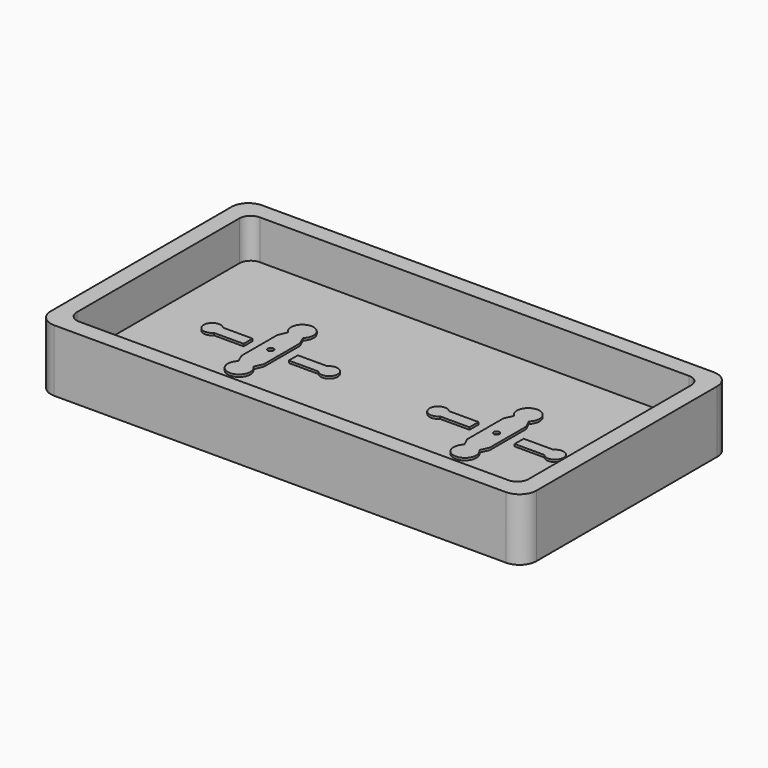
from build123d import *

# Parameters (mm, degrees)
F0_R     = 0.25
F1_DEPTH = 2
F2_DEPTH = 3.5
F3_DEPTH = 0.2


with BuildPart() as f1:
    # F0 (on Top) → F1 (new body)
    with BuildSketch(Plane.XY):
        with BuildLine():
            ThreePointArc((0, 21.5), (-1.06066, 21.06066), (-1.5, 20))
            Line((-1.5, 20), (-1.5, 0))
            ThreePointArc((-1.5, 0), (-1.06066, -1.06066), (0, -1.5))
            Line((0, -1.5), (40, -1.5))
            ThreePointArc((40, -1.5), (41.06066, -1.06066), (41.5, 0))
            Line((41.5, 0), (41.5, 20))
            ThreePointArc((41.5, 20), (41.06066, 21.06066), (40, 21.5))
            Line((40, 21.5), (0, 21.5))
        make_face()
        with BuildLine():
            Line((19.75, 0), (1, 0))
            ThreePointArc((1, 0), (0.292893, 0.292893), (0, 1))
            Line((0, 1), (0, 19))
            ThreePointArc((0, 19), (0.292893, 19.707107), (1, 20))
            Line((1, 20), (19.75, 20))
            Line((19.75, 20), (20.25, 20))
            Line((20.25, 20), (39, 20))
            ThreePointArc((39, 20), (39.707107, 19.707107), (40, 19))
            Line((40, 19), (40, 1))
            ThreePointArc((40, 1), (39.707107, 0.292893), (39, 0))
            Line((39, 0), (20.25, 0))
            Line((20.25, 0), (19.75, 0))
        make_face(mode=Mode.SUBTRACT)
        with BuildLine():
            ThreePointArc((0, 1), (0.292893, 0.292893), (1, 0))
            Line((1, 0), (19.75, 0))
            Line((19.75, 0), (19.75, 10))
            Line((19.75, 10), (19.75, 20))
            Line((19.75, 20), (1, 20))
            ThreePointArc((1, 20), (0.292893, 19.707107), (0, 19))
            Line((0, 19), (0, 1))
        make_face()
        with BuildLine():
            Line((10.661438, 12.711), (11, 11.961))
            Line((11, 11.961), (11.338563, 12.711))
            Line((11.338563, 12.711), (11.99852, 13.37373))
            Line((11.99852, 13.37373), (14.216055, 15.591268))
            ThreePointArc((14.216055, 15.591268), (15.889087, 16.557194), (14.923162, 14.884161))
            Line((14.923162, 14.884161), (12, 11.961))
            Line((12, 11.961), (12, 10.461))
            Line((12, 10.461), (14.622964, 10.461))
            ThreePointArc((14.622964, 10.461), (14.711865, 10.545372), (14.81332, 10.614138))
            ThreePointArc((14.81332, 10.614138), (15.921966, 9.838845), (14.622964, 9.461))
            Line((14.622964, 9.461), (12, 9.461))
            Line((12, 9.461), (12, 7.961))
            Line((12, 7.961), (14.923162, 5.037839))
            ThreePointArc((14.923162, 5.037839), (15.889087, 3.364806), (14.216055, 4.330732))
            Line((14.216055, 4.330732), (11.99852, 6.54827))
            Line((11.99852, 6.54827), (11.338563, 7.211))
            Line((11.338563, 7.211), (11, 7.961))
            Line((11, 7.961), (10.661438, 7.211))
            ThreePointArc((10.661438, 7.211), (10, 5.461), (9.338563, 7.211))
            Line((9.338563, 7.211), (9, 7.961))
            Line((9, 7.961), (8.661438, 7.211))
            Line((8.661438, 7.211), (8.001481, 6.54827))
            Line((8.001481, 6.54827), (5.783946, 4.330732))
            ThreePointArc((5.783946, 4.330732), (4.110914, 3.364806), (5.076839, 5.037839))
            Line((5.076839, 5.037839), (8, 7.961))
            Line((8, 7.961), (8, 9.461))
            Line((8, 9.461), (5.377037, 9.461))
            ThreePointArc((5.377037, 9.461), (4.078035, 9.838845), (5.18668, 10.614138))
            ThreePointArc((5.18668, 10.614138), (5.288136, 10.545372), (5.377037, 10.461))
            Line((5.377037, 10.461), (8, 10.461))
            Line((8, 10.461), (8, 11.961))
            Line((8, 11.961), (5.076839, 14.884161))
            ThreePointArc((5.076839, 14.884161), (4.110914, 16.557194), (5.783946, 15.591268))
            Line((5.783946, 15.591268), (8.001481, 13.37373))
            Line((8.001481, 13.37373), (8.661438, 12.711))
            Line((8.661438, 12.711), (9, 11.961))
            Line((9, 11.961), (9.338563, 12.711))
            ThreePointArc((9.338563, 12.711), (10, 14.461), (10.661438, 12.711))
        make_face(mode=Mode.SUBTRACT)
        with BuildLine():
            Line((11, 7.961), (11, 9.961))
            Line((11, 9.961), (11, 11.961))
            Line((11, 11.961), (10.661438, 12.711))
            ThreePointArc((10.661438, 12.711), (10, 14.461), (9.338563, 12.711))
            Line((9.338563, 12.711), (9, 11.961))
            Line((9, 11.961), (9, 9.961))
            Line((9, 9.961), (9, 7.961))
            Line((9, 7.961), (9.338563, 7.211))
            ThreePointArc((9.338563, 7.211), (10, 5.461), (10.661438, 7.211))
            Line((10.661438, 7.211), (11, 7.961))
        make_face()
        with Locations((10, 9.961)):
            Circle(F0_R, mode=Mode.SUBTRACT)
        with BuildLine():
            Line((9, 9.961), (9, 11.961))
            Line((9, 11.961), (8.661438, 12.711))
            Line((8.661438, 12.711), (8.001481, 13.37373))
            Line((8.001481, 13.37373), (5.783946, 15.591268))
            ThreePointArc((5.783946, 15.591268), (4.110914, 16.557194), (5.076839, 14.884161))
            Line((5.076839, 14.884161), (8, 11.961))
            Line((8, 11.961), (8, 10.461))
            Line((8, 10.461), (8, 9.961))
            Line((8, 9.961), (8, 9.461))
            Line((8, 9.461), (8, 7.961))
            Line((8, 7.961), (5.076839, 5.037839))
            ThreePointArc((5.076839, 5.037839), (4.110914, 3.364806), (5.783946, 4.330732))
            Line((5.783946, 4.330732), (8.001481, 6.54827))
            Line((8.001481, 6.54827), (8.661438, 7.211))
            Line((8.661438, 7.211), (9, 7.961))
            Line((9, 7.961), (9, 9.961))
        make_face()
        with BuildLine():
            Line((8, 9.961), (8, 10.461))
            Line((8, 10.461), (5.377037, 10.461))
            ThreePointArc((5.377037, 10.461), (5.288136, 10.545372), (5.18668, 10.614138))
            ThreePointArc((5.18668, 10.614138), (4.078035, 9.838845), (5.377037, 9.461))
            Line((5.377037, 9.461), (8, 9.461))
            Line((8, 9.461), (8, 9.961))
        make_face()
        with BuildLine():
            Line((11, 11.961), (11, 9.961))
            Line((11, 9.961), (11, 7.961))
            Line((11, 7.961), (11.338563, 7.211))
            Line((11.338563, 7.211), (11.99852, 6.54827))
            Line((11.99852, 6.54827), (14.216055, 4.330732))
            ThreePointArc((14.216055, 4.330732), (15.889087, 3.364806), (14.923162, 5.037839))
            Line((14.923162, 5.037839), (12, 7.961))
            Line((12, 7.961), (12, 9.461))
            Line((12, 9.461), (12, 9.961))
            Line((12, 9.961), (12, 10.461))
            Line((12, 10.461), (12, 11.961))
            Line((12, 11.961), (14.923162, 14.884161))
            ThreePointArc((14.923162, 14.884161), (15.889087, 16.557194), (14.216055, 15.591268))
            Line((14.216055, 15.591268), (11.99852, 13.37373))
            Line((11.99852, 13.37373), (11.338563, 12.711))
            Line((11.338563, 12.711), (11, 11.961))
        make_face()
        with BuildLine():
            Line((14.622964, 10.461), (12, 10.461))
            Line((12, 10.461), (12, 9.961))
            Line((12, 9.961), (12, 9.461))
            Line((12, 9.461), (14.622964, 9.461))
            ThreePointArc((14.622964, 9.461), (15.921966, 9.838845), (14.81332, 10.614138))
            ThreePointArc((14.81332, 10.614138), (14.711865, 10.545372), (14.622964, 10.461))
        make_face()
        Polygon((19.75, 10), (19.75, 0), (20.25, 0), (20.25, 20), (19.75, 20), align=None)
        with BuildLine():
            Line((20.25, 20), (20.25, 0))
            Line((20.25, 0), (39, 0))
            ThreePointArc((39, 0), (39.707107, 0.292893), (40, 1))
            Line((40, 1), (40, 19))
            ThreePointArc((40, 19), (39.707107, 19.707107), (39, 20))
            Line((39, 20), (20.25, 20))
        make_face()
        with BuildLine():
            Line((31, 11.961), (31.338562, 12.711))
            Line((31.338562, 12.711), (31.998519, 13.37373))
            Line((31.998519, 13.37373), (34.216054, 15.591268))
            ThreePointArc((34.216054, 15.591268), (35.889086, 16.557194), (34.923161, 14.884161))
            Line((34.923161, 14.884161), (32, 11.961))
            Line((32, 11.961), (32, 10.461))
            Line((32, 10.461), (34.622963, 10.461))
            ThreePointArc((34.622963, 10.461), (34.711864, 10.545372), (34.81332, 10.614138))
            ThreePointArc((34.81332, 10.614138), (35.921965, 9.838845), (34.622963, 9.461))
            Line((34.622963, 9.461), (32, 9.461))
            Line((32, 9.461), (32, 7.961))
            Line((32, 7.961), (34.923161, 5.037839))
            ThreePointArc((34.923161, 5.037839), (35.889086, 3.364806), (34.216054, 4.330732))
            Line((34.216054, 4.330732), (31.998519, 6.54827))
            Line((31.998519, 6.54827), (31.338562, 7.211))
            Line((31.338562, 7.211), (31, 7.961))
            Line((31, 7.961), (30.661437, 7.211))
            ThreePointArc((30.661437, 7.211), (30, 5.461), (29.338562, 7.211))
            Line((29.338562, 7.211), (29, 7.961))
            Line((29, 7.961), (28.661437, 7.211))
            Line((28.661437, 7.211), (28.00148, 6.54827))
            Line((28.00148, 6.54827), (25.783945, 4.330732))
            ThreePointArc((25.783945, 4.330732), (24.110913, 3.364806), (25.076838, 5.037839))
            Line((25.076838, 5.037839), (28, 7.961))
            Line((28, 7.961), (28, 9.461))
            Line((28, 9.461), (25.377036, 9.461))
            ThreePointArc((25.377036, 9.461), (24.078034, 9.838845), (25.18668, 10.614138))
            ThreePointArc((25.18668, 10.614138), (25.288135, 10.545372), (25.377036, 10.461))
            Line((25.377036, 10.461), (28, 10.461))
            Line((28, 10.461), (28, 11.961))
            Line((28, 11.961), (25.076838, 14.884161))
            ThreePointArc((25.076838, 14.884161), (24.110913, 16.557194), (25.783945, 15.591268))
            Line((25.783945, 15.591268), (28.00148, 13.37373))
            Line((28.00148, 13.37373), (28.661437, 12.711))
            Line((28.661437, 12.711), (29, 11.961))
            Line((29, 11.961), (29.338562, 12.711))
            ThreePointArc((29.338562, 12.711), (30, 14.461), (30.661437, 12.711))
            Line((30.661437, 12.711), (31, 11.961))
        make_face(mode=Mode.SUBTRACT)
        with BuildLine():
            Line((34.622963, 10.461), (32, 10.461))
            Line((32, 10.461), (32, 9.961))
            Line((32, 9.961), (32, 9.461))
            Line((32, 9.461), (34.622963, 9.461))
            ThreePointArc((34.622963, 9.461), (35.921965, 9.838845), (34.81332, 10.614138))
            ThreePointArc((34.81332, 10.614138), (34.711864, 10.545372), (34.622963, 10.461))
        make_face()
        with BuildLine():
            Line((31.998519, 13.37373), (31.338562, 12.711))
            Line((31.338562, 12.711), (31, 11.961))
            Line((31, 11.961), (31, 9.961))
            Line((31, 9.961), (31, 7.961))
            Line((31, 7.961), (31.338562, 7.211))
            Line((31.338562, 7.211), (31.998519, 6.54827))
            Line((31.998519, 6.54827), (34.216054, 4.330732))
            ThreePointArc((34.216054, 4.330732), (35.889086, 3.364806), (34.923161, 5.037839))
            Line((34.923161, 5.037839), (32, 7.961))
            Line((32, 7.961), (32, 9.461))
            Line((32, 9.461), (32, 9.961))
            Line((32, 9.961), (32, 10.461))
            Line((32, 10.461), (32, 11.961))
            Line((32, 11.961), (34.923161, 14.884161))
            ThreePointArc((34.923161, 14.884161), (35.889086, 16.557194), (34.216054, 15.591268))
            Line((34.216054, 15.591268), (31.998519, 13.37373))
        make_face()
        with BuildLine():
            Line((31, 9.961), (31, 11.961))
            Line((31, 11.961), (30.661437, 12.711))
            ThreePointArc((30.661437, 12.711), (30, 14.461), (29.338562, 12.711))
            Line((29.338562, 12.711), (29, 11.961))
            Line((29, 11.961), (29, 9.961))
            Line((29, 9.961), (29, 7.961))
            Line((29, 7.961), (29.338562, 7.211))
            ThreePointArc((29.338562, 7.211), (30, 5.461), (30.661437, 7.211))
            Line((30.661437, 7.211), (31, 7.961))
            Line((31, 7.961), (31, 9.961))
        make_face()
        with Locations((30, 9.961)):
            Circle(F0_R, mode=Mode.SUBTRACT)
        with BuildLine():
            Line((29, 9.961), (29, 11.961))
            Line((29, 11.961), (28.661437, 12.711))
            Line((28.661437, 12.711), (28.00148, 13.37373))
            Line((28.00148, 13.37373), (25.783945, 15.591268))
            ThreePointArc((25.783945, 15.591268), (24.110913, 16.557194), (25.076838, 14.884161))
            Line((25.076838, 14.884161), (28, 11.961))
            Line((28, 11.961), (28, 10.461))
            Line((28, 10.461), (28, 9.961))
            Line((28, 9.961), (28, 9.461))
            Line((28, 9.461), (28, 7.961))
            Line((28, 7.961), (25.076838, 5.037839))
            ThreePointArc((25.076838, 5.037839), (24.110913, 3.364806), (25.783945, 4.330732))
            Line((25.783945, 4.330732), (28.00148, 6.54827))
            Line((28.00148, 6.54827), (28.661437, 7.211))
            Line((28.661437, 7.211), (29, 7.961))
            Line((29, 7.961), (29, 9.961))
        make_face()
        with BuildLine():
            Line((28, 9.961), (28, 10.461))
            Line((28, 10.461), (25.377036, 10.461))
            ThreePointArc((25.377036, 10.461), (25.288135, 10.545372), (25.18668, 10.614138))
            ThreePointArc((25.18668, 10.614138), (24.078034, 9.838845), (25.377036, 9.461))
            Line((25.377036, 9.461), (28, 9.461))
            Line((28, 9.461), (28, 9.961))
        make_face()
        with Locations((30, 9.961)):
            Circle(F0_R)
        with Locations((10, 9.961)):
            Circle(F0_R)
    extrude(amount=-F1_DEPTH)

    # F0 (on Top) → F2 (join)
    with BuildSketch(Plane.XY):
        with BuildLine():
            ThreePointArc((0, 21.5), (-1.06066, 21.06066), (-1.5, 20))
            Line((-1.5, 20), (-1.5, 0))
            ThreePointArc((-1.5, 0), (-1.06066, -1.06066), (0, -1.5))
            Line((0, -1.5), (40, -1.5))
            ThreePointArc((40, -1.5), (41.06066, -1.06066), (41.5, 0))
            Line((41.5, 0), (41.5, 20))
            ThreePointArc((41.5, 20), (41.06066, 21.06066), (40, 21.5))
            Line((40, 21.5), (0, 21.5))
        make_face()
        with BuildLine():
            Line((19.75, 0), (1, 0))
            ThreePointArc((1, 0), (0.292893, 0.292893), (0, 1))
            Line((0, 1), (0, 19))
            ThreePointArc((0, 19), (0.292893, 19.707107), (1, 20))
            Line((1, 20), (19.75, 20))
            Line((19.75, 20), (20.25, 20))
            Line((20.25, 20), (39, 20))
            ThreePointArc((39, 20), (39.707107, 19.707107), (40, 19))
            Line((40, 19), (40, 1))
            ThreePointArc((40, 1), (39.707107, 0.292893), (39, 0))
            Line((39, 0), (20.25, 0))
            Line((20.25, 0), (19.75, 0))
        make_face(mode=Mode.SUBTRACT)
    extrude(amount=F2_DEPTH)

    # F0 (on Top) → F3 (join)
    with BuildSketch(Plane.XY):
        with BuildLine():
            Line((11, 7.961), (11, 9.961))
            Line((11, 9.961), (11, 11.961))
            Line((11, 11.961), (10.661438, 12.711))
            ThreePointArc((10.661438, 12.711), (10, 14.461), (9.338563, 12.711))
            Line((9.338563, 12.711), (9, 11.961))
            Line((9, 11.961), (9, 9.961))
            Line((9, 9.961), (9, 7.961))
            Line((9, 7.961), (9.338563, 7.211))
            ThreePointArc((9.338563, 7.211), (10, 5.461), (10.661438, 7.211))
            Line((10.661438, 7.211), (11, 7.961))
        make_face()
        with Locations((10, 9.961)):
            Circle(F0_R, mode=Mode.SUBTRACT)
        with BuildLine():
            Line((8, 9.961), (8, 10.461))
            Line((8, 10.461), (5.377037, 10.461))
            ThreePointArc((5.377037, 10.461), (5.288136, 10.545372), (5.18668, 10.614138))
            ThreePointArc((5.18668, 10.614138), (4.078035, 9.838845), (5.377037, 9.461))
            Line((5.377037, 9.461), (8, 9.461))
            Line((8, 9.461), (8, 9.961))
        make_face()
        with BuildLine():
            Line((14.622964, 10.461), (12, 10.461))
            Line((12, 10.461), (12, 9.961))
            Line((12, 9.961), (12, 9.461))
            Line((12, 9.461), (14.622964, 9.461))
            ThreePointArc((14.622964, 9.461), (15.921966, 9.838845), (14.81332, 10.614138))
            ThreePointArc((14.81332, 10.614138), (14.711865, 10.545372), (14.622964, 10.461))
        make_face()
        with BuildLine():
            Line((28, 9.961), (28, 10.461))
            Line((28, 10.461), (25.377036, 10.461))
            ThreePointArc((25.377036, 10.461), (25.288135, 10.545372), (25.18668, 10.614138))
            ThreePointArc((25.18668, 10.614138), (24.078034, 9.838845), (25.377036, 9.461))
            Line((25.377036, 9.461), (28, 9.461))
            Line((28, 9.461), (28, 9.961))
        make_face()
        with BuildLine():
            Line((31, 9.961), (31, 11.961))
            Line((31, 11.961), (30.661437, 12.711))
            ThreePointArc((30.661437, 12.711), (30, 14.461), (29.338562, 12.711))
            Line((29.338562, 12.711), (29, 11.961))
            Line((29, 11.961), (29, 9.961))
            Line((29, 9.961), (29, 7.961))
            Line((29, 7.961), (29.338562, 7.211))
            ThreePointArc((29.338562, 7.211), (30, 5.461), (30.661437, 7.211))
            Line((30.661437, 7.211), (31, 7.961))
            Line((31, 7.961), (31, 9.961))
        make_face()
        with Locations((30, 9.961)):
            Circle(F0_R, mode=Mode.SUBTRACT)
        with BuildLine():
            Line((34.622963, 10.461), (32, 10.461))
            Line((32, 10.461), (32, 9.961))
            Line((32, 9.961), (32, 9.461))
            Line((32, 9.461), (34.622963, 9.461))
            ThreePointArc((34.622963, 9.461), (35.921965, 9.838845), (34.81332, 10.614138))
            ThreePointArc((34.81332, 10.614138), (34.711864, 10.545372), (34.622963, 10.461))
        make_face()
    extrude(amount=F3_DEPTH)


solid = f1.part
